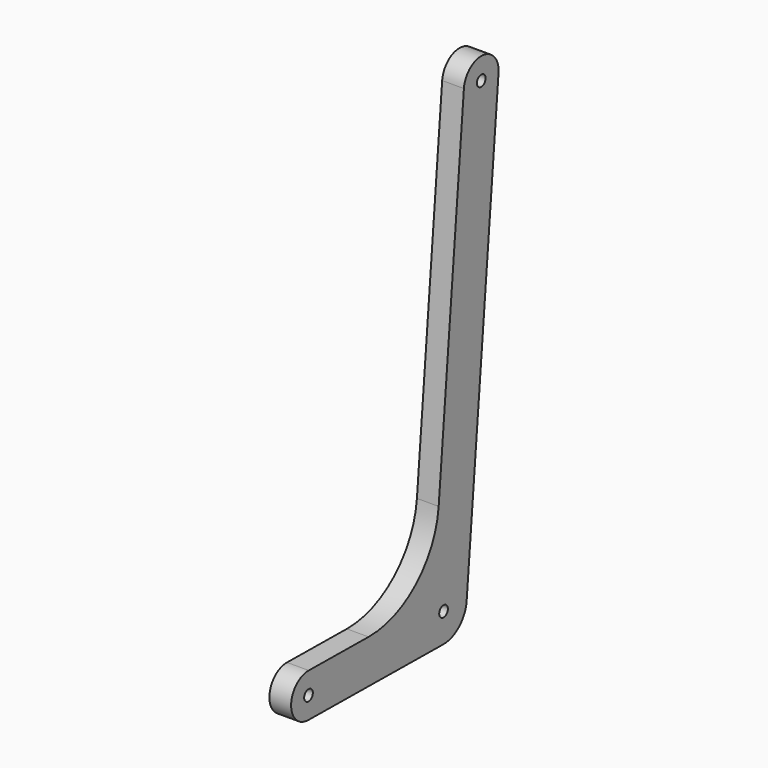
from build123d import *

# Parameters (mm, degrees)
F2_R     = 4.7625
F3_DEPTH = 19.05


with BuildPart() as f3:
    # F2 (on Right) → F3 (new body)
    with BuildSketch(Plane.YZ):
        with BuildLine():
            ThreePointArc((-749.54648, 275.423549), (-768.813366, 256.592933), (-749.98275, 237.326046))
            Line((-749.98275, 237.326046), (-602.102315, 235.632607))
            ThreePointArc((-602.102315, 235.632607), (-584.771859, 242.194496), (-576.511176, 258.78257))
            Line((-576.511176, 258.78257), (-541.569312, 651.973339))
            ThreePointArc((-541.569312, 651.973339), (-558.858252, 672.634838), (-579.519752, 655.345898))
            Line((-579.519752, 655.345898), (-607.177403, 344.122272))
            ThreePointArc((-607.177403, 344.122272), (-631.959454, 294.358051), (-683.950822, 274.672386))
            Line((-683.950822, 274.672386), (-749.54648, 275.423549))
        make_face()
        with Locations((-749.764615, 256.374798)):
            Circle(F2_R, mode=Mode.SUBTRACT)
        with Locations((-601.811469, 261.030942)):
            Circle(F2_R, mode=Mode.SUBTRACT)
        with Locations((-560.544532, 653.659618)):
            Circle(F2_R, mode=Mode.SUBTRACT)
    extrude(amount=F3_DEPTH)


solid = f3.part
